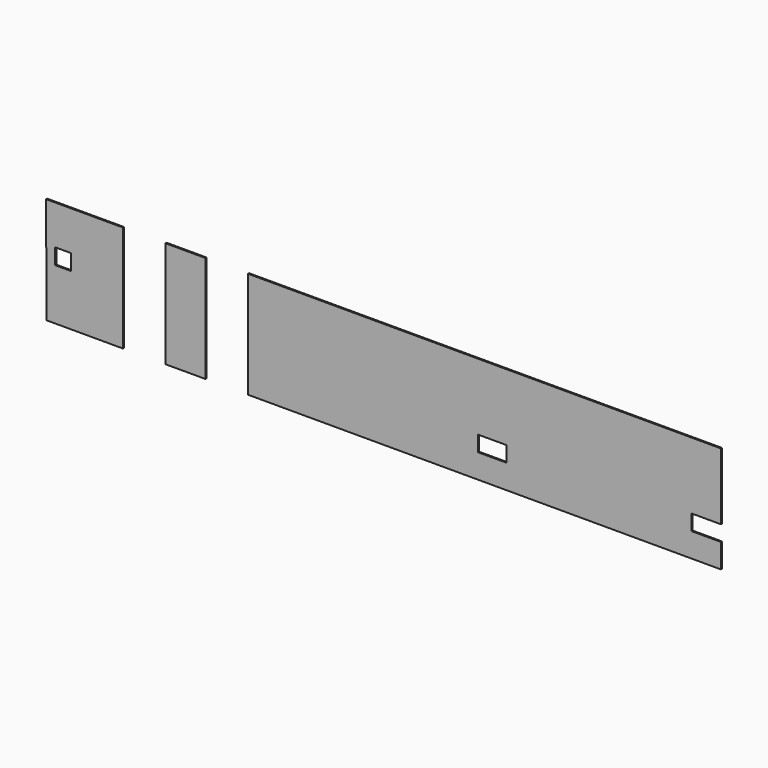
from build123d import *

# Parameters (mm, degrees)
F0_W     = 135
F0_H     = 73
F3_DEPTH = 6
F1_W     = 187
F1_H     = 500
F4_DEPTH = 6
F2_W     = 74
F2_H     = 74
F5_DEPTH = 6


with BuildPart() as f3:
    # F0 (on Front) → F3 (new body)
    with BuildSketch(Plane.XZ):
        Polygon((1249, 210), (-971, 210), (-971, -290), (1249, -290), (1249, -176.5), (1111, -176.5), (1111, -103.5), (1249, -103.5), align=None)
        with Locations((176, -140)):
            Rectangle(F0_W, F0_H, mode=Mode.SUBTRACT)
    extrude(amount=F3_DEPTH)


with BuildPart() as f4:
    # F1 (on Front) → F4 (new body)
    with BuildSketch(Plane.XZ):
        with Locations((-1264.5, -40)):
            Rectangle(F1_W, F1_H)
    extrude(amount=F4_DEPTH)


with BuildPart() as f5:
    # F2 (on Front) → F5 (new body)
    with BuildSketch(Plane.XZ):
        Polygon((-1917, -290), (-1558, -290), (-1558, 210), (-1919, 210), align=None)
        with Locations((-1839, -12)):
            Rectangle(F2_W, F2_H, mode=Mode.SUBTRACT)
    extrude(amount=F5_DEPTH)


solid = Compound([f3.part, f4.part, f5.part])
